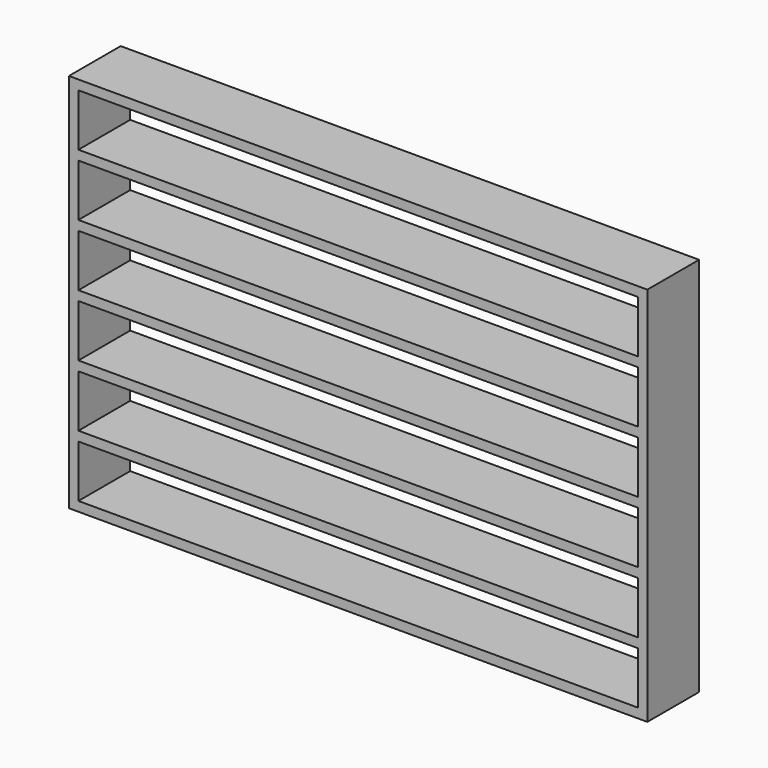
from build123d import *

# Parameters (mm, degrees)
F0_W     = 1520
F0_H     = 1000
F1_DEPTH = 170
F2_W     = 1470
F2_H     = 137.5
F3_DEPTH = 170


with BuildPart() as f1:
    # F0 (on Front) → F1 (new body)
    with BuildSketch(Plane.XZ):
        Rectangle(F0_W, F0_H)
    extrude(amount=-F1_DEPTH)

    # F2 (on face) → F3 (cut, through all)
    with BuildSketch(Plane.XZ):
        with Locations((0, 406.25)):
            Rectangle(F2_W, F2_H)
        with Locations((0, 243.75)):
            Rectangle(F2_W, F2_H)
        with Locations((0, 81.25)):
            Rectangle(F2_W, F2_H)
        with Locations((0, -81.25)):
            Rectangle(F2_W, F2_H)
        with Locations((0, -243.75)):
            Rectangle(F2_W, F2_H)
        Polygon((-735, -337.5), (-735, -475), (735, -475), (735, -425), (735, -337.5), align=None)
    extrude(amount=-F3_DEPTH, mode=Mode.SUBTRACT)


solid = f1.part
